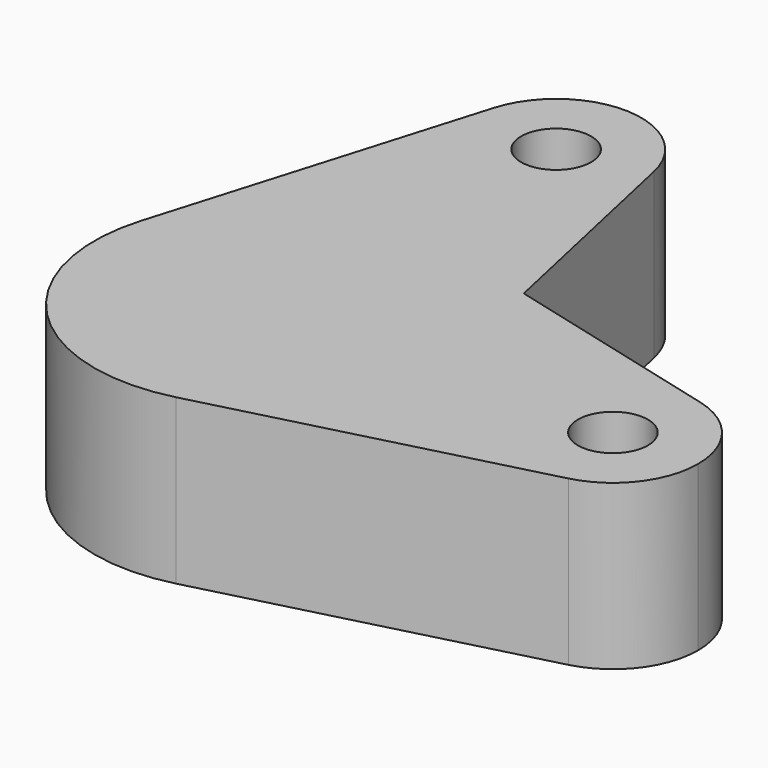
from build123d import *

# Parameters (mm, degrees)
F0_R     = 5.3361283698
F1_DEPTH = 25


with BuildPart() as f1:
    # F0 (on Top) → F1 (new body)
    with BuildSketch(Plane.XY):
        with BuildLine():
            ThreePointArc((14.9163241405, 52.7680086499), (14.8401902708, 54.171918287), (14.6126816385, 55.5593614236))
            ThreePointArc((14.6126816385, 55.5593614236), (2.4097380818, 65.741419961), (-10.5058992859, 56.4800777855))
            ThreePointArc((-10.5058992859, 56.4800777855), (0.0584840327, 39.9221055948), (14.9163241405, 52.7680086499))
        make_face()
        with Locations((1.9342003872, 52.7680086499)):
            Circle(F0_R, mode=Mode.SUBTRACT)
        with BuildLine():
            ThreePointArc((-25.1224026689, 7.4964106405), (-12.8838755219, 22.8328062201), (6.5711412686, 25.3801377218))
            Line((6.5711412686, 25.3801377218), (22.1448177539, 21.3479756675))
            Line((22.1448177539, 21.3479756675), (14.6126816385, 55.5593614236))
            ThreePointArc((14.6126816385, 55.5593614236), (14.8401902708, 54.171918287), (14.9163241405, 52.7680086499))
            ThreePointArc((14.9163241405, 52.7680086499), (0.0584840327, 39.9221055948), (-10.5058992859, 56.4800777855))
            Line((-10.5058992859, 56.4800777855), (-25.1224026689, 7.4964106405))
        make_face()
        with BuildLine():
            ThreePointArc((6.5711412686, 25.3801377218), (18.8746968967, 18.1955243235), (25.6038070106, 5.6370519701))
            Line((25.6038070106, 5.6370519701), (22.1448177539, 21.3479756675))
            Line((22.1448177539, 21.3479756675), (6.5711412686, 25.3801377218))
        make_face()
        with BuildLine():
            ThreePointArc((6.5711412686, -25.3801377218), (20.7317018594, -16.0476735499), (26.2170038019, 0))
            ThreePointArc((26.2170038019, 0), (26.0632537693, 2.8351527833), (25.6038070106, 5.6370519701))
            ThreePointArc((25.6038070106, 5.6370519701), (18.8746968967, 18.1955243235), (6.5711412686, 25.3801377218))
            ThreePointArc((6.5711412686, 25.3801377218), (-12.8838755219, 22.8328062201), (-25.1224026689, 7.4964106405))
            ThreePointArc((-25.1224026689, 7.4964106405), (-18.8746968967, -18.1955243235), (6.5711412686, -25.3801377218))
        make_face()
        with BuildLine():
            ThreePointArc((56.0573402856, 12.5677247968), (39.8213218542, 0), (56.0573402856, -12.5677247968))
            ThreePointArc((56.0573402856, -12.5677247968), (63.0693600951, -7.9464795272), (65.7855693607, 0))
            ThreePointArc((65.7855693607, 0), (63.0693600951, 7.9464795272), (56.0573402856, 12.5677247968))
        make_face()
        with Locations((52.8034456074, 0)):
            Circle(F0_R, mode=Mode.SUBTRACT)
        with BuildLine():
            ThreePointArc((25.6038070106, 5.6370519701), (26.0632537693, 2.8351527833), (26.2170038019, 0))
            ThreePointArc((26.2170038019, 0), (20.7317018594, -16.0476735499), (6.5711412686, -25.3801377218))
            Line((6.5711412686, -25.3801377218), (56.0573402856, -12.5677247968))
            ThreePointArc((56.0573402856, -12.5677247968), (39.8213218542, 0), (56.0573402856, 12.5677247968))
            Line((56.0573402856, 12.5677247968), (22.1448177539, 21.3479756675))
            Line((22.1448177539, 21.3479756675), (25.6038070106, 5.6370519701))
        make_face()
    extrude(amount=F1_DEPTH)


solid = f1.part
